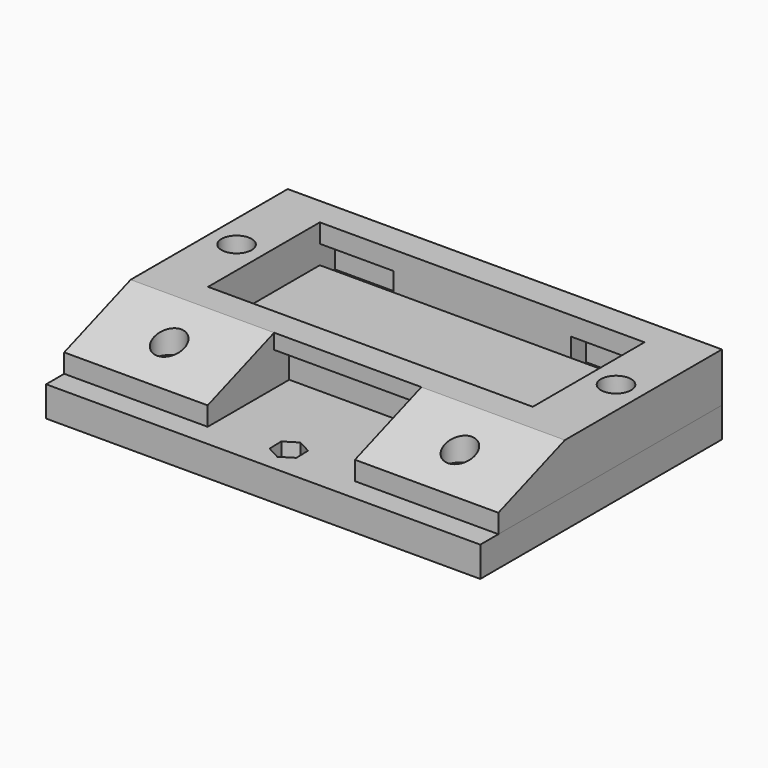
from build123d import *

# Parameters (mm, degrees)
F0_R      = 4
F0_R_2    = 2
F0_W      = 19.5
F0_H      = 5
F0_W_2    = 39
F1_DEPTH  = 13
F2_DEPTH  = 3
F3_DEPTH  = 8
F0_W_3    = 38
F0_H_2    = 22
F4_DEPTH  = 5
F5_DEPTH  = 9
F7_DEPTH  = 38
F9_DEPTH  = 38
F10_R     = 4
F10_R_2   = 2
F11_DEPTH = 5
F12_DEPTH = 25
F13_DEPTH = 9
F14_R     = 2
F14_W     = 19.5
F14_H     = 5
F15_DEPTH = 8
F16_R     = 2
F17_DEPTH = 5.5
F18_R     = 2
F19_DEPTH = 5.5


with BuildPart() as f1:
    # F0 (on Top) → F1 (new body)
    with BuildSketch(Plane.XY):
        Polygon((19.5, -26), (57.5, -26), (57.5, 26), (-57.5, 26), (-57.5, -26), (-19.5, -26), (-19.5, -21), (19.5, -21), align=None)
        with Locations((-50.25, 0)):
            Circle(F0_R, mode=Mode.SUBTRACT)
        Polygon((43, 18.5), (43, -18.5), (-43, -18.5), (-43, 18.5), (-43, 23.5), (-23.5, 23.5), (-23.5, 18.5), (23.5, 18.5), (23.5, 23.5), (43, 23.5), align=None, mode=Mode.SUBTRACT)
        with Locations((50.25, 0)):
            Circle(F0_R, mode=Mode.SUBTRACT)
        with Locations((-50.25, 0)):
            Circle(F0_R)
        with Locations((-50.25, 0)):
            Circle(F0_R_2, mode=Mode.SUBTRACT)
        with Locations((50.25, 0)):
            Circle(F0_R)
        with Locations((50.25, 0)):
            Circle(F0_R_2, mode=Mode.SUBTRACT)
        with Locations((-33.25, 21)):
            Rectangle(F0_W, F0_H)
        with Locations((33.25, 21)):
            Rectangle(F0_W, F0_H)
        with Locations((0, -23.5)):
            Rectangle(F0_W_2, F0_H)
    extrude(amount=F1_DEPTH)

    # F0 (on Top) → F2 (join)
    with BuildSketch(Plane.XY):
        Polygon((-43, -18.5), (43, -18.5), (43, 18.5), (23.5, 18.5), (-23.5, 18.5), (-43, 18.5), align=None)
    extrude(amount=F2_DEPTH)

    # F0 (on Top) → F3 (cut)
    with BuildSketch(Plane.XY):
        with Locations((-33.25, 21)):
            Rectangle(F0_W, F0_H)
        with Locations((33.25, 21)):
            Rectangle(F0_W, F0_H)
    extrude(amount=F3_DEPTH, mode=Mode.SUBTRACT)

    # F0 (on Top) → F4 (join)
    with BuildSketch(Plane.XY):
        with Locations((-38.5, -37)):
            Rectangle(F0_W_3, F0_H_2)
        with Locations((-38.5, -37)):
            Circle(F0_R, mode=Mode.SUBTRACT)
        with Locations((-38.5, -37)):
            Circle(F0_R)
        with Locations((-38.5, -37)):
            Circle(F0_R_2, mode=Mode.SUBTRACT)
        with Locations((38.5, -37)):
            Rectangle(F0_W_3, F0_H_2)
        with Locations((38.5, -37)):
            Circle(F0_R, mode=Mode.SUBTRACT)
        with Locations((38.5, -37)):
            Circle(F0_R)
        with Locations((38.5, -37)):
            Circle(F0_R_2, mode=Mode.SUBTRACT)
    extrude(amount=F4_DEPTH)

    # F0 (on Top) → F5 (cut)
    with BuildSketch(Plane.XY):
        with Locations((0, -23.5)):
            Rectangle(F0_W_2, F0_H)
    extrude(amount=F5_DEPTH, mode=Mode.SUBTRACT)

    # F6 (on face) → F7 (join)
    with BuildSketch(Plane.YZ.offset(57.5)):
        Polygon((-26, 5), (-26, 13), (-48, 5), align=None)
    extrude(amount=-F7_DEPTH)

    # F8 (on face) → F9 (join)
    with BuildSketch(Plane(origin=(-57.5, 0, 0), x_dir=(0, -1, 0), z_dir=(-1, 0, 0))):
        Polygon((48, 5), (26, 13), (26, 5), align=None)
    extrude(amount=-F9_DEPTH)

    # F10 (on face) → F11 (cut)
    with BuildSketch(Plane.XY.offset(13)):
        with Locations((-50.25, 0)):
            Circle(F10_R)
        with Locations((-50.25, 0)):
            Circle(F10_R_2, mode=Mode.SUBTRACT)
        with Locations((50.25, 0)):
            Circle(F10_R)
        with Locations((50.25, 0)):
            Circle(F10_R_2, mode=Mode.SUBTRACT)
    extrude(amount=-F11_DEPTH, mode=Mode.SUBTRACT)

    # F0 (on Top) → F12 (cut)
    with BuildSketch(Plane.XY):
        with Locations((38.5, -37)):
            Circle(F0_R_2)
        with Locations((-38.5, -37)):
            Circle(F0_R_2)
    extrude(amount=F12_DEPTH, mode=Mode.SUBTRACT)

    # F10 (on face) → F13 (cut)
    with BuildSketch(Plane.XY.offset(13)):
        with Locations((-38.4998954833, -36.9998440146)):
            Circle(F10_R)
        with Locations((38.5000556707, -36.9997806847)):
            Circle(F10_R)
    extrude(amount=-F13_DEPTH, mode=Mode.SUBTRACT)


with BuildPart() as f15:
    # F14 (on face) → F15 (new body)
    with BuildSketch(Plane(origin=(0, 0, 0), x_dir=(1, 0, 0), z_dir=(0, 0, -1))):
        Polygon((19.5, 48), (57.5, 48), (57.5, 54), (-57.5, 54), (-57.5, 48), (-19.5, 48), (-19.5, 21), (19.5, 21), align=None)
        with Locations((0, 45.5)):
            Circle(F14_R, mode=Mode.SUBTRACT)
        Polygon((-57.5, -26), (57.5, -26), (57.5, 48), (19.5, 48), (19.5, 21), (-19.5, 21), (-19.5, 48), (-57.5, 48), align=None)
        with Locations((-33.25, -21)):
            Rectangle(F14_W, F14_H, mode=Mode.SUBTRACT)
        with Locations((-50.25, 0)):
            Circle(F14_R, mode=Mode.SUBTRACT)
        with Locations((0, -17.5)):
            Circle(F14_R, mode=Mode.SUBTRACT)
        with Locations((33.25, -21)):
            Rectangle(F14_W, F14_H, mode=Mode.SUBTRACT)
        with Locations((50.25, 0)):
            Circle(F14_R, mode=Mode.SUBTRACT)
        with Locations((-38.5, 37)):
            Circle(F14_R, mode=Mode.SUBTRACT)
        with Locations((38.5, 37)):
            Circle(F14_R, mode=Mode.SUBTRACT)
        with Locations((33.25, -21)):
            Rectangle(F14_W, F14_H)
        with Locations((-33.25, -21)):
            Rectangle(F14_W, F14_H)
    extrude(amount=F15_DEPTH)

    # F16 (on face) → F17 (cut)
    with BuildSketch(Plane.XY):
        Polygon((0.288539231, 13.5104204342), (3.5993468699, 15.7550925211), (3.310807639, 19.7446720869), (-0.288539231, 21.4895795658), (-3.5993468699, 19.2449074789), (-3.310807639, 15.2553279131), align=None)
        with Locations((0, 17.5)):
            Circle(F16_R, mode=Mode.SUBTRACT)
        Polygon((0.1236368048, -49.498088786), (3.5242648576, -47.3919717792), (3.4006280528, -43.3938829932), (-0.1236368048, -41.501911214), (-3.5242648576, -43.6080282208), (-3.4006280528, -47.6061170068), align=None)
        with Locations((0, -45.5)):
            Circle(F16_R, mode=Mode.SUBTRACT)
    extrude(amount=-F17_DEPTH, mode=Mode.SUBTRACT)

    # F18 (on face) → F19 (cut)
    with BuildSketch(Plane(origin=(0, 0, -8), x_dir=(1, 0, 0), z_dir=(0, 0, -1))):
        Polygon((-39.0249456513, 33.034595599), (-35.3283318782, 34.5626815299), (-34.8033862268, 38.5280859308), (-37.9750543487, 40.965404401), (-41.6716681218, 39.4373184701), (-42.1966137732, 35.4719140692), align=None)
        with Locations((-38.5, 37)):
            Circle(F18_R, mode=Mode.SUBTRACT)
        Polygon((34.5065976223, 37.2296463585), (36.3044192308, 33.6564352726), (40.2978216085, 33.4267889142), (42.4934023777, 36.7703536415), (40.6955807692, 40.3435647274), (36.7021783915, 40.5732110858), align=None)
        with Locations((38.5, 37)):
            Circle(F18_R, mode=Mode.SUBTRACT)
        Polygon((46.8398287902, 2.0906296468), (46.7343760111, -1.9079800755), (50.1445472208, -3.9986097223), (53.6601712098, -2.0906296468), (53.7656239889, 1.9079800755), (50.3554527792, 3.9986097223), align=None)
        with Locations((50.25, 0)):
            Circle(F18_R, mode=Mode.SUBTRACT)
        Polygon((-50.1445472208, -3.9986097223), (-46.7343760111, -1.9079800755), (-46.8398287902, 2.0906296468), (-50.3554527792, 3.9986097223), (-53.7656239889, 1.9079800755), (-53.6601712098, -2.0906296468), align=None)
        with Locations((-50.25, 0)):
            Circle(F18_R, mode=Mode.SUBTRACT)
    extrude(amount=-F19_DEPTH, mode=Mode.SUBTRACT)


solid = Compound([f1.part, f15.part])
